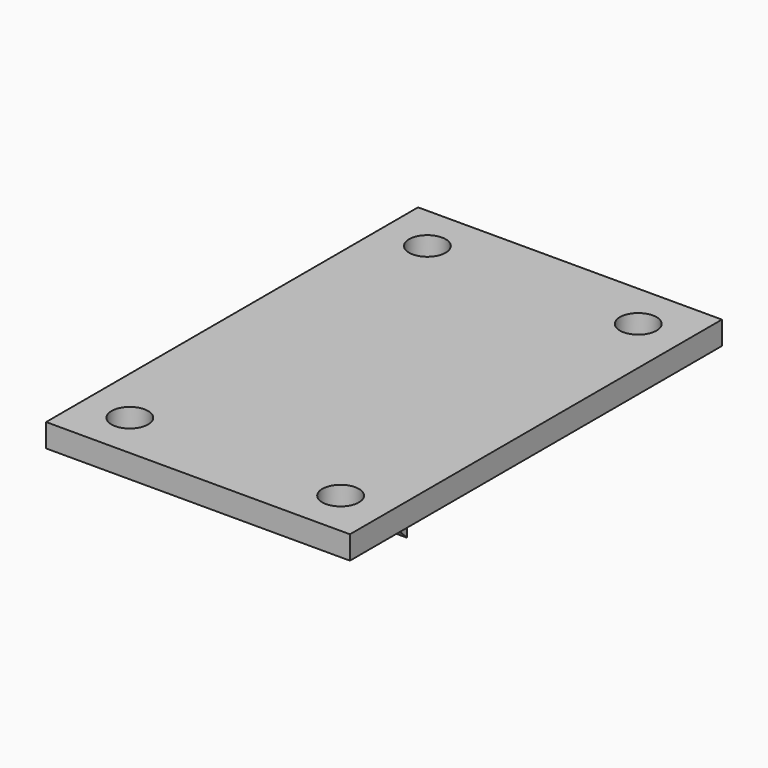
from build123d import *

# Parameters (mm, degrees)
F0_W     = 165.989
F0_H     = 254
F0_R     = 10
F1_DEPTH = 12.7
F3_DEPTH = 12.7


with BuildPart() as f1:
    # F0 (on Top) → F1 (new body)
    with BuildSketch(Plane.XY):
        Rectangle(F0_W, F0_H)
        with Locations((-57.5945, -101.6)):
            Circle(F0_R, mode=Mode.SUBTRACT)
        with Locations((57.5945, -101.6)):
            Circle(F0_R, mode=Mode.SUBTRACT)
        with Locations((-57.5945, 101.6)):
            Circle(F0_R, mode=Mode.SUBTRACT)
        with Locations((57.5945, 101.6)):
            Circle(F0_R, mode=Mode.SUBTRACT)
    extrude(amount=F1_DEPTH)


with BuildPart() as f3:
    # F2 (on Right) → F3 (new body)
    with BuildSketch(Plane.YZ):
        Polygon((0, -63.5), (0, 0), (-63.5, 0), align=None)
    extrude(amount=F3_DEPTH)


solid = Compound([f1.part, f3.part])
